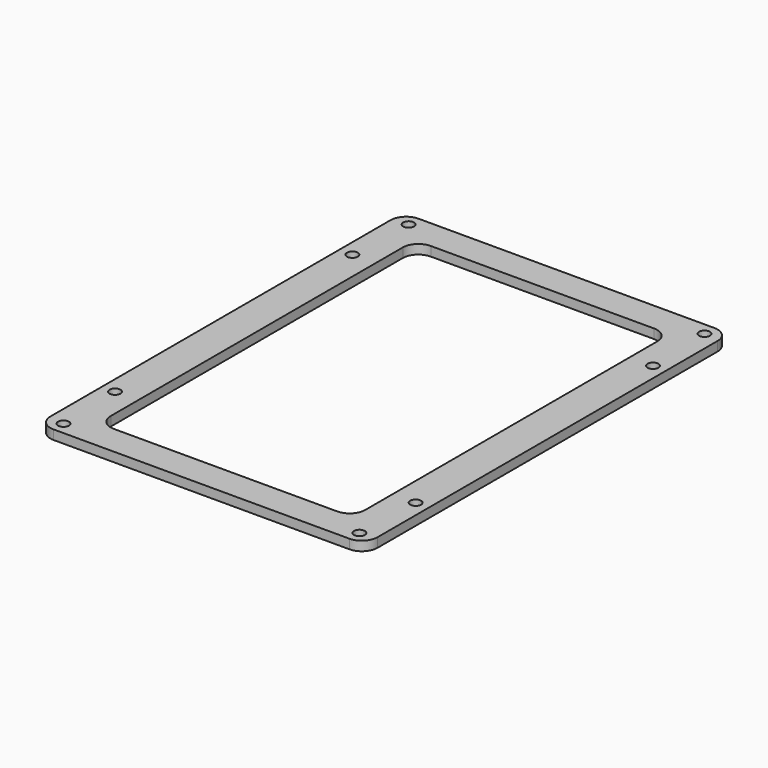
from build123d import *

# Parameters (mm, degrees)
F0_W     = 105
F0_H     = 146.5
F0_R     = 1.75
F1_DEPTH = 3
F2_W     = 81.692316
F2_H     = 127.184674
F3_DEPTH = 25
F4_R     = 5


with BuildPart() as f1:
    # F0 (on Top) → F1 (new body)
    with BuildSketch(Plane.XY):
        Rectangle(F0_W, F0_H)
        with Locations((-47.5, -69.25)):
            Circle(F0_R, mode=Mode.SUBTRACT)
        with Locations((-48.26, -47.625)):
            Circle(F0_R, mode=Mode.SUBTRACT)
        with Locations((47.5, -69.25)):
            Circle(F0_R, mode=Mode.SUBTRACT)
        with Locations((48.26, -47.625)):
            Circle(F0_R, mode=Mode.SUBTRACT)
        with Locations((-48.26, 47.625)):
            Circle(F0_R, mode=Mode.SUBTRACT)
        with Locations((-47.5, 69.25)):
            Circle(F0_R, mode=Mode.SUBTRACT)
        with Locations((48.26, 47.625)):
            Circle(F0_R, mode=Mode.SUBTRACT)
        with Locations((47.5, 69.25)):
            Circle(F0_R, mode=Mode.SUBTRACT)
    extrude(amount=F1_DEPTH)

    # F2 (on face) → F3 (cut)
    with BuildSketch(Plane.XY.offset(3)):
        Rectangle(F2_W, F2_H)
    extrude(amount=-F3_DEPTH, mode=Mode.SUBTRACT)

    # F4
    f4_edges = [f1.edges().sort_by_distance(p)[0] for p in [
        (-52.5, 73.25, 1.5),
        (-52.5, -73.25, 1.5),
        (52.5, -73.25, 1.5),
        (-40.846158, 63.592337, 1.5),
        (52.5, 73.25, 1.5),
        (40.846158, 63.592337, 1.5),
        (40.846158, -63.592337, 1.5),
        (-40.846158, -63.592337, 1.5),
    ]]
    fillet(f4_edges, radius=F4_R)


solid = f1.part
